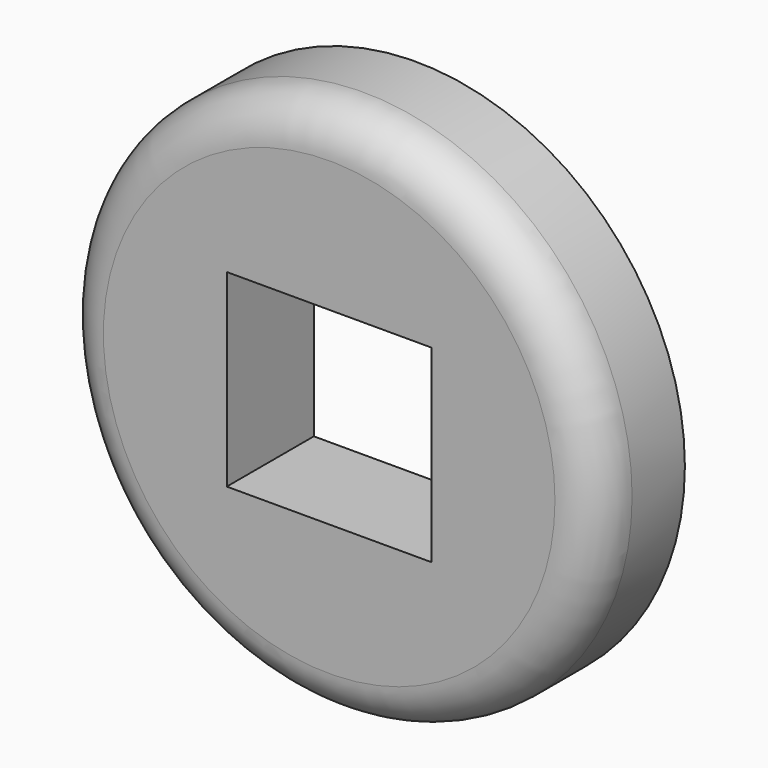
from build123d import *

# Parameters (mm, degrees)
F0_R     = 62.700464
F2_DEPTH = 25.4
F1_W     = 47.8006
F1_H     = 44.089228
F3_DEPTH = 30
F4_R     = 10


with BuildPart() as f2:
    # F0 (on Front) → F2 (new body)
    with BuildSketch(Plane.XZ):
        Circle(F0_R)
    extrude(amount=F2_DEPTH)

    # F1 (on Front) → F3 (cut)
    with BuildSketch(Plane.XZ):
        Rectangle(F1_W, F1_H)
    extrude(amount=F3_DEPTH, mode=Mode.SUBTRACT)

    # F4
    f4_edges = [f2.edges().sort_by_distance(p)[0] for p in [
        (-62.700464, -25.4, 0),
    ]]
    fillet(f4_edges, radius=F4_R)


solid = f2.part
